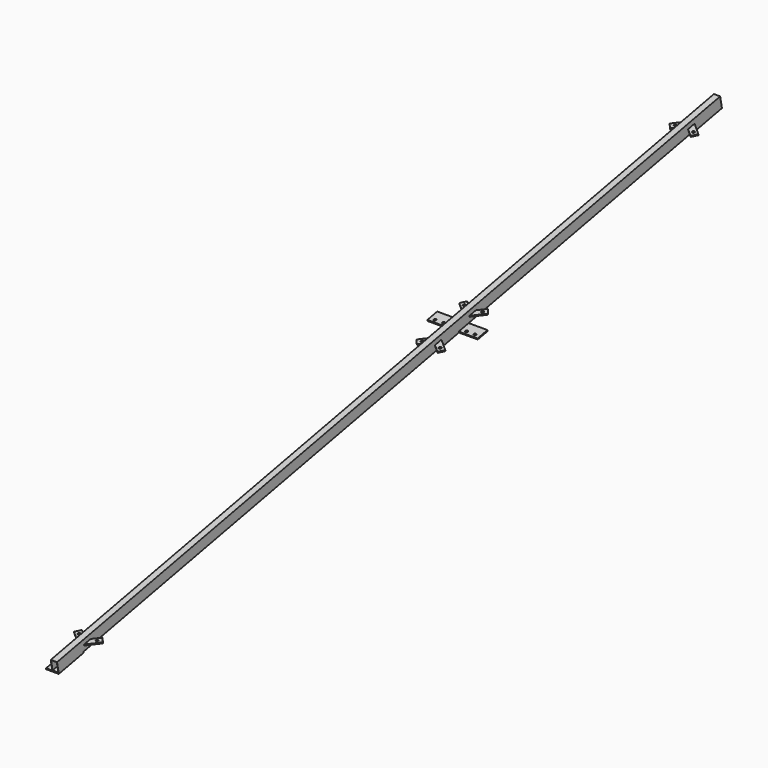
from build123d import *

# Parameters (mm, degrees)
F3_W           = 30
F3_H           = 50
F3_W_2         = 28
F3_H_2         = 48
F4_DEPTH       = 30
F4_DEPTH_BACK  = 4000
F5_R           = 6
F5_W           = 30
F5_H           = 150
F6_DEPTH       = 5
F7_W           = 90
F7_H           = 60
F7_R           = 6
F8_DEPTH       = 5
F9_R           = 6
F10_DEPTH      = 2.5
F10_DEPTH_BACK = 2.5
F11_R          = 6
F12_DEPTH      = 5


with BuildPart() as f4:
    # F3 (on face) → F4 (new body, two sides)
    with BuildSketch(Plane(origin=(0, 0, 0), x_dir=(1, 0, 0), z_dir=(0, -0.9816271834, -0.1908089954))) as f4_sk:
        Rectangle(F3_W, F3_H)
        Rectangle(F3_W_2, F3_H_2, mode=Mode.SUBTRACT)
    extrude(amount=F4_DEPTH)
    extrude(f4_sk.sketch, amount=-F4_DEPTH_BACK)

    # F5 (on face) → F6 (join)
    with BuildSketch(Plane(origin=(0, 4.7702248844, -24.5406795862), x_dir=(1, 0, 0), z_dir=(0, 0.1908089954, -0.9816271834))):
        Polygon((-45, -4000), (-15, -4000), (-15, -3850), (-45, -3850), (-45, -3940), align=None)
        with Locations((-30, -3915)):
            Circle(F5_R, mode=Mode.SUBTRACT)
        with Locations((-30, -3875)):
            Circle(F5_R, mode=Mode.SUBTRACT)
        with Locations((0, -3925)):
            Rectangle(F5_W, F5_H)
    extrude(amount=F6_DEPTH)

    # F7 (on face) → F8 (join)
    with BuildSketch(Plane(origin=(0, 4.7702248844, -24.5406795862), x_dir=(1, 0, 0), z_dir=(0, 0.1908089954, -0.9816271834))):
        with Locations((-90, -2431.6451083533)):
            Rectangle(F7_W, F7_H)
        with Locations((-110, -2416.6451083533)):
            Circle(F7_R, mode=Mode.SUBTRACT)
        with Locations((-70, -2416.6451083533)):
            Circle(F7_R, mode=Mode.SUBTRACT)
        Polygon((-45, -2461.6451083533), (-15, -2461.6451083533), (-15, -2311.6451083533), (-45, -2311.6451083533), (-45, -2401.6451083533), align=None)
        with Locations((-30, -2376.6451083533)):
            Circle(F7_R, mode=Mode.SUBTRACT)
        with Locations((-30, -2336.6451083533)):
            Circle(F7_R, mode=Mode.SUBTRACT)
        Polygon((-15, -2311.6451083533), (-15, -2461.6451083533), (15, -2461.6451083533), (15, -2401.6451083533), (15, -2311.6451083533), align=None)
        with Locations((60, -2431.6451083533)):
            Rectangle(F7_W, F7_H)
        with Locations((40, -2416.6451083533)):
            Circle(F7_R, mode=Mode.SUBTRACT)
        with Locations((80, -2416.6451083533)):
            Circle(F7_R, mode=Mode.SUBTRACT)
    extrude(amount=F8_DEPTH)

    # F9 (on line) → F10 (join, two sides)
    with BuildSketch(Plane(origin=(0, 0, 0), x_dir=(1, 0, 0), z_dir=(0, 0.1908089954, -0.9816271834))) as f10_sk:
        Polygon((15, -3800.8401286151), (15, -3840), (68.6263252593, -3795.0086981831), (49.3443387664, -3772.0259873577), align=None)
        with Locations((43.2705051734, -3796.7017352104)):
            Circle(F9_R, mode=Mode.SUBTRACT)
        Polygon((14.8702725282, -2510.6961412562), (15, -2510.8049797382), (15, -2471.6451083533), align=None)
        Polygon((15, -2471.6451083533), (15, -2510.8049797382), (49.3443387664, -2539.6191209957), (68.6263252593, -2516.6364101702), align=None)
        with Locations((43.2705051734, -2514.943373143)):
            Circle(F9_R, mode=Mode.SUBTRACT)
        Polygon((14.8702725282, -3800.9489670971), (15, -3840), (15, -3800.8401286151), align=None)
        Polygon((49.3443387664, -2233.671095711), (15, -2262.4852369684), (15, -2301.6451083533), (68.6263252593, -2256.6538065364), align=None)
        with Locations((43.2705051734, -2258.3468435637)):
            Circle(F9_R, mode=Mode.SUBTRACT)
        Polygon((15, -2301.6451083533), (15, -2262.4852369684), (14.8702725282, -2262.5940754504), align=None)
        Polygon((15, -169.185568556), (15, -130.0256971711), (14.8702725282, -169.0767300739), align=None)
        Polygon((68.6263252593, -175.016998988), (15, -130.0256971711), (15, -169.185568556), (49.3443387664, -197.9997098134), align=None)
        with Locations((43.2705051734, -173.3239619607)):
            Circle(F9_R, mode=Mode.SUBTRACT)
        Polygon((-68.6263252593, -175.016998988), (-49.3443387664, -197.9997098134), (-15, -169.185568556), (-15, -130.0256971711), align=None)
        with Locations((-43.2705051734, -173.3239619607)):
            Circle(F9_R, mode=Mode.SUBTRACT)
        Polygon((-15, -2301.6451083533), (-15, -2262.4852369684), (-49.3443387664, -2233.671095711), (-68.6263252593, -2256.6538065364), align=None)
        with Locations((-43.2705051734, -2258.3468435637)):
            Circle(F9_R, mode=Mode.SUBTRACT)
        Polygon((-14.8702725282, -2510.6961412562), (-15, -2471.6451083533), (-68.6263252593, -2516.6364101702), (-49.3443387664, -2539.6191209957), align=None)
        with Locations((-43.2705051734, -2514.943373143)):
            Circle(F9_R, mode=Mode.SUBTRACT)
        Polygon((-68.6263252593, -3795.0086981831), (-15, -3840), (-14.8702725282, -3800.9489670971), (-49.3443387664, -3772.0259873577), align=None)
        with Locations((-43.2705051734, -3796.7017352104)):
            Circle(F9_R, mode=Mode.SUBTRACT)
    extrude(amount=F10_DEPTH)
    extrude(f10_sk.sketch, amount=-F10_DEPTH_BACK)

    # F11 (on face) → F12 (join)
    with BuildSketch(Plane(origin=(0, 4.7702248844, -24.5406795862), x_dir=(1, 0, 0), z_dir=(0, 0.1908089954, -0.9816271834))):
        Polygon((-45, -120), (-15, -120), (15, -120), (15, 30), (-45, 30), (-45, -30), align=None)
        with Locations((-30, -95)):
            Circle(F11_R, mode=Mode.SUBTRACT)
        with Locations((-30, -55)):
            Circle(F11_R, mode=Mode.SUBTRACT)
    extrude(amount=F12_DEPTH)


solid = f4.part
